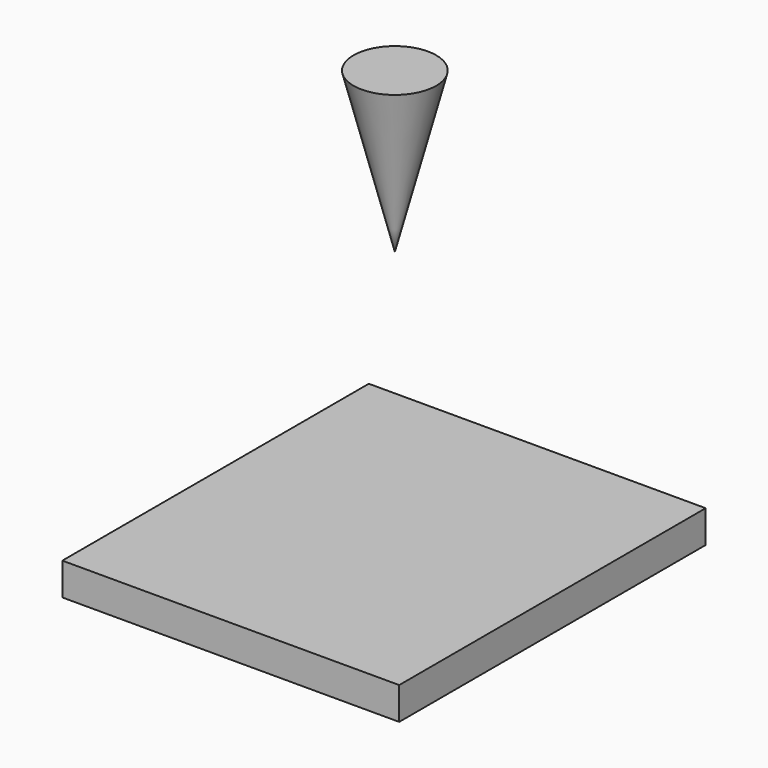
from build123d import *

# Parameters (mm, degrees)
F0_W     = 16.472649
F0_H     = 5.000625
F3_W     = 52.746551
F3_H     = 59.978848
F4_DEPTH = 5.08


with BuildPart() as f1:
    # F0 (on Front) → F1 (revolve)
    with BuildSketch(Plane.XZ):
        Polygon((0, 25.003126), (0, 0), (6.471399, 25.003126), align=None)
        with Locations((8.236325, -40.446231)):
            Rectangle(F0_W, F0_H)
    revolve(axis=Axis((0, 0, 12.501563), (0, 0, 1)))

    # F3 (on face) → F4 (join)
    with BuildSketch(Plane.XY.offset(-37.945919)):
        with Locations((0.152102, -2.318277)):
            Rectangle(F3_W, F3_H)
    extrude(amount=-F4_DEPTH)


solid = f1.part
